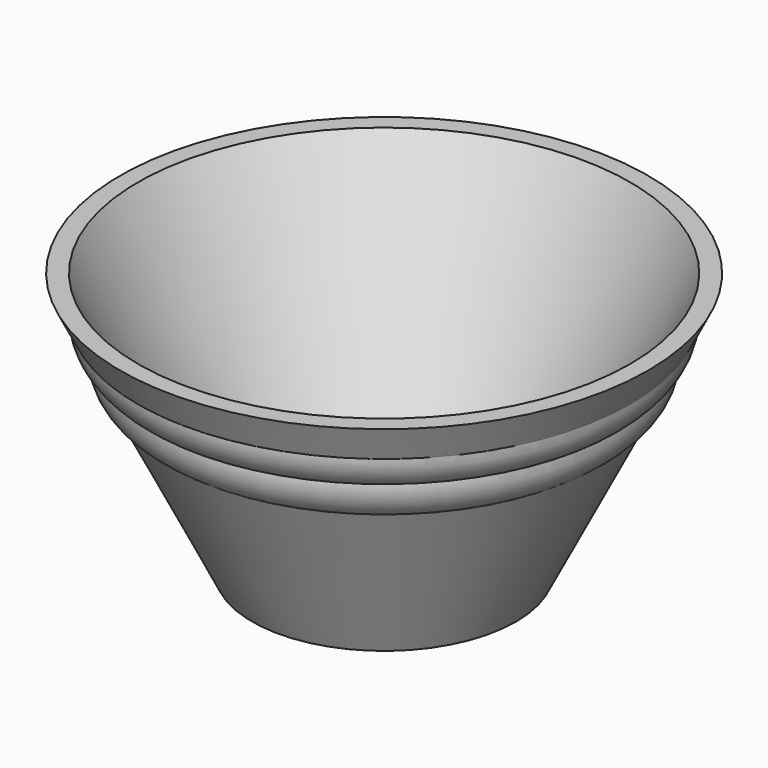
from build123d import *


with BuildPart() as f1:
    # F0 (on Front) → F1 (revolve)
    with BuildSketch(Plane.XZ):
        Polygon((0, 3.0734), (0, 0), (25.4, 0), (41.024185, 31.24837), (44.498579, 38.197157), (47.382554, 43.965108), (50.8, 50.8), (47.363834, 50.8), (23.500534, 3.0734), align=None)
        with BuildLine():
            Line((47.382554, 43.965108), (44.498579, 38.197157))
            ThreePointArc((44.498579, 38.197157), (46.627971, 40.737431), (47.382554, 43.965108))
        make_face()
        with BuildLine():
            Line((44.498579, 38.197157), (41.024185, 31.24837))
            ThreePointArc((41.024185, 31.24837), (43.789655, 34.208627), (44.498579, 38.197157))
        make_face()
    revolve(axis=Axis((0, 0, 25.4), (0, 0, 1)))


solid = f1.part
